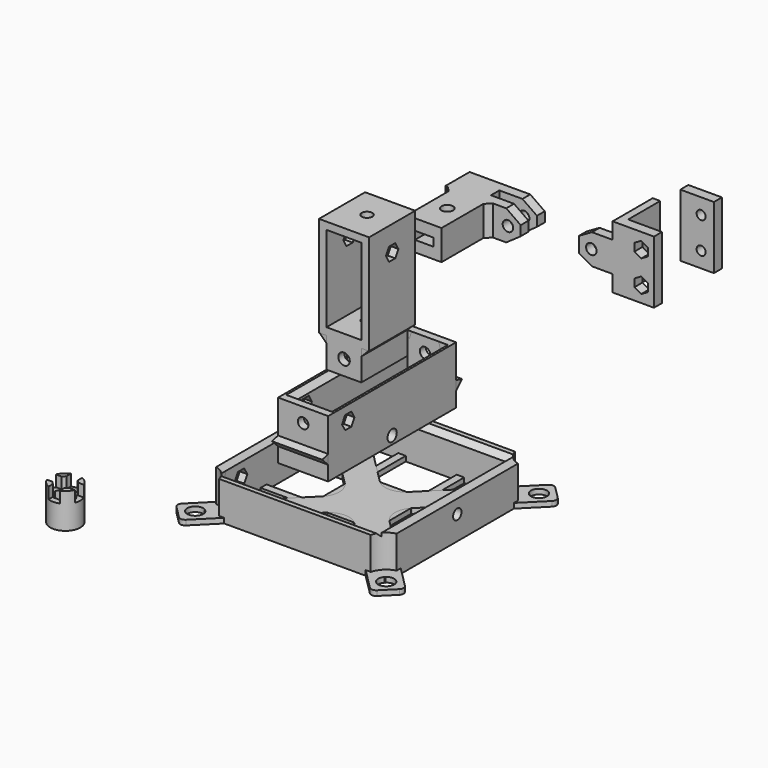
from build123d import *

# Parameters (mm, degrees)
CYLINDER004_R            = 2.1
CYLINDER004_DEPTH        = 3
CYLINDER005_R            = 2.1
CYLINDER005_DEPTH        = 3
CYLINDER006_R            = 2.1
CYLINDER006_DEPTH        = 3
CYLINDER003_R            = 2.1
CYLINDER003_DEPTH        = 3
CUBE003_W                = 70
CUBE003_H                = 3
CUBE003_DEPTH            = 2
CUBE004_W                = 3
CUBE004_H                = 70
CUBE004_DEPTH            = 2
CUBE005_W                = 3
CUBE005_H                = 70
CUBE005_DEPTH            = 2
CUBE006_W                = 9
CUBE006_H                = 9
CUBE006_DEPTH            = 2
CUBE007_W                = 9
CUBE007_H                = 9
CUBE007_DEPTH            = 2
CUBE008_W                = 9
CUBE008_H                = 9
CUBE008_DEPTH            = 2
CUBE009_W                = 9
CUBE009_H                = 9
CUBE009_DEPTH            = 2
CUBE002_W                = 70
CUBE002_H                = 3
CUBE002_DEPTH            = 2
CYLINDER_R               = 2.1
CYLINDER_DEPTH           = 73
PRISM_DEPTH              = 64
PRISM_ROLL_ANGLE         = 90
PRISM_PITCH_ANGLE        = -14.999988
PRISM_PLACEMENT_ANGLE    = 90
PRISM001_DEPTH           = 64
PRISM001_ROLL_ANGLE      = -90
PRISM001_PITCH_ANGLE     = -14.999988
PRISM001_PLACEMENT_ANGLE = -90
PRISM002_DEPTH           = 3
PRISM003_DEPTH           = 3
CYLINDER001_R            = 1.8
CYLINDER001_DEPTH        = 6
CYLINDER002_R            = 1.8
CYLINDER002_DEPTH        = 6
CUBE001_W                = 64
CUBE001_H                = 64
CUBE001_DEPTH            = 15
CUBE_W                   = 72
CUBE_H                   = 72
CUBE_DEPTH               = 15
SKETCH001_R              = 3.175
PAD_DEPTH                = 2
SKETCH_R                 = 8.125
POCKET_DEPTH             = 13
REVOLUTION_ANGLE         = -90
CUBE013_W                = 3.2
CUBE013_H                = 7.4
CUBE013_DEPTH            = 6
CUBE014_W                = 3.52
CUBE014_H                = 7.4
CUBE014_DEPTH            = 6
CYLINDER009_R            = 2.3
CYLINDER009_DEPTH        = 71
CUBE012_W                = 14
CUBE012_H                = 10
CUBE012_DEPTH            = 6
CYLINDER007_R            = 2.3
CYLINDER007_DEPTH        = 71
CYLINDER008_R            = 2.1
CYLINDER008_DEPTH        = 71
PRISM006_DEPTH           = 57.8
PRISM006_ROLL_ANGLE      = 90
PRISM006_PITCH_ANGLE     = -14.999996
PRISM007_DEPTH           = 57.8
PRISM007_ROLL_ANGLE      = -90
PRISM007_PITCH_ANGLE     = -14.999996
PRISM007_PLACEMENT_ANGLE = -180
PRISM008_DEPTH           = 21
CUBE011_W                = 14
CUBE011_H                = 57.8
CUBE011_DEPTH            = 23
PRISM004_DEPTH           = 20
PRISM004_ROLL_ANGLE      = 90
PRISM004_PITCH_ANGLE     = -14.999988
PRISM004_PLACEMENT_ANGLE = 90
PRISM005_DEPTH           = 20
PRISM005_ROLL_ANGLE      = -90
PRISM005_PITCH_ANGLE     = -14.999988
PRISM005_PLACEMENT_ANGLE = -90
CUBE010_W                = 20
CUBE010_H                = 63.8
CUBE010_DEPTH            = 23
CYLINDER010_R            = 2.1
CYLINDER010_DEPTH        = 43
CYLINDER011_R            = 4
CYLINDER011_DEPTH        = 12
CYLINDER012_R            = 2.3
CYLINDER012_DEPTH        = 71
CUBE018_W                = 7.4
CUBE018_H                = 3.2
CUBE018_DEPTH            = 12
CUBE019_W                = 7.4
CUBE019_H                = 3.52
CUBE019_DEPTH            = 12
PRISM011_DEPTH           = 34
PRISM011_PLACEMENT_ANGLE = 15
PRISM012_DEPTH           = 34
PRISM012_PLACEMENT_ANGLE = 75
PRISM013_DEPTH           = 21
CUBE017_W                = 14
CUBE017_H                = 23
CUBE017_DEPTH            = 34.2
CUBE016_W                = 13.8
CUBE016_H                = 23
CUBE016_DEPTH            = 12
PRISM009_DEPTH           = 23
PRISM009_ROLL_ANGLE      = 90
PRISM009_PITCH_ANGLE     = -14.999996
PRISM010_DEPTH           = 23
PRISM010_ROLL_ANGLE      = -90
PRISM010_PITCH_ANGLE     = -14.999996
PRISM010_PLACEMENT_ANGLE = -180
CUBE015_W                = 20
CUBE015_H                = 23
CUBE015_DEPTH            = 40
CUBE022_W                = 7.4
CUBE022_H                = 50
CUBE022_DEPTH            = 3.2
CUBE023_W                = 15
CUBE023_H                = 4.2
CUBE023_DEPTH            = 12
CYLINDER014_R            = 2.1
CYLINDER014_DEPTH        = 13
PRISM016_DEPTH           = 13
PRISM016_ROLL_ANGLE      = 90
PRISM016_PITCH_ANGLE     = 65.000022
PRISM017_DEPTH           = 13
PRISM017_ROLL_ANGLE      = -90
PRISM017_PITCH_ANGLE     = 4.999997
PRISM017_PLACEMENT_ANGLE = 180
CYLINDER013_R            = 2.3
CYLINDER013_DEPTH        = 41
PRISM014_DEPTH           = 12
PRISM014_PLACEMENT_ANGLE = 15
PRISM015_DEPTH           = 12
PRISM015_PLACEMENT_ANGLE = 75
CUBE021_W                = 30
CUBE021_H                = 12
CUBE021_DEPTH            = 12
CUBE020_W                = 13.8
CUBE020_H                = 23
CUBE020_DEPTH            = 12
PRISM018_DEPTH           = 13
PRISM019_DEPTH           = 13
PRISM020_DEPTH           = 6
PRISM020_ROLL_ANGLE      = 90
PRISM020_PITCH_ANGLE     = 30.000006
CYLINDER016_R            = 1.8
CYLINDER016_DEPTH        = 6
PRISM021_DEPTH           = 6
PRISM021_ROLL_ANGLE      = 90
PRISM021_PITCH_ANGLE     = 30.000006
CYLINDER017_R            = 1.8
CYLINDER017_DEPTH        = 6
CYLINDER015_R            = 2.1
CYLINDER015_DEPTH        = 13
CUBE025_W                = 3
CUBE025_H                = 20
CUBE025_DEPTH            = 25
CUBE026_W                = 15
CUBE026_H                = 4
CUBE026_DEPTH            = 25
CUBE027_W                = 13.4
CUBE027_H                = 4
CUBE027_DEPTH            = 25
CUBE024_W                = 15
CUBE024_H                = 3.8
CUBE024_DEPTH            = 12
CYLINDER019_R            = 4
CYLINDER019_DEPTH        = 4.5
CUBE028_W                = 20
CUBE028_H                = 4.5
CUBE028_DEPTH            = 4.5
CUBE029_W                = 4.5
CUBE029_H                = 20
CUBE029_DEPTH            = 4.5
PRISM022_DEPTH           = 10
CYLINDER018_R            = 6
CYLINDER018_DEPTH        = 14


with BuildPart() as cylinder004:
    # cylinder004 → cylinder004 (new body)
    with BuildSketch(Plane(origin=(-27.5, 27.5, -17.5), x_dir=(1, 0, 0), z_dir=(0, 0, 1))):
        Circle(CYLINDER004_R)
    extrude(amount=CYLINDER004_DEPTH)


with BuildPart() as cylinder005:
    # cylinder005 → cylinder005 (new body)
    with BuildSketch(Plane(origin=(27.5, -27.5, -17.5), x_dir=(1, 0, 0), z_dir=(0, 0, 1))):
        Circle(CYLINDER005_R)
    extrude(amount=CYLINDER005_DEPTH)


with BuildPart() as cylinder006:
    # cylinder006 → cylinder006 (new body)
    with BuildSketch(Plane(origin=(-27.5, -27.5, -17.5), x_dir=(1, 0, 0), z_dir=(0, 0, 1))):
        Circle(CYLINDER006_R)
    extrude(amount=CYLINDER006_DEPTH)


with BuildPart() as group002:
    # cylinder003 → cylinder003 (new body)
    with BuildSketch(Plane(origin=(27.5, 27.5, -17.5), x_dir=(1, 0, 0), z_dir=(0, 0, 1))):
        Circle(CYLINDER003_R)
    extrude(amount=CYLINDER003_DEPTH)

    # Group002: union cylinder004, cylinder005, cylinder006
    add(cylinder004.part)
    add(cylinder005.part)
    add(cylinder006.part)


with BuildPart() as cube003:
    # cube003 → cube003 (new body)
    with BuildSketch(Plane(origin=(-35, -13.1667, -17), x_dir=(1, 0, 0), z_dir=(0, 0, 1))):
        with Locations((35, 1.5)):
            Rectangle(CUBE003_W, CUBE003_H)
    extrude(amount=CUBE003_DEPTH)


with BuildPart() as cube004:
    # cube004 → cube004 (new body)
    with BuildSketch(Plane(origin=(10.1667, -35, -17), x_dir=(1, 0, 0), z_dir=(0, 0, 1))):
        with Locations((1.5, 35)):
            Rectangle(CUBE004_W, CUBE004_H)
    extrude(amount=CUBE004_DEPTH)


with BuildPart() as cube005:
    # cube005 → cube005 (new body)
    with BuildSketch(Plane(origin=(-13.1667, -35, -17), x_dir=(1, 0, 0), z_dir=(0, 0, 1))):
        with Locations((1.5, 35)):
            Rectangle(CUBE005_W, CUBE005_H)
    extrude(amount=CUBE005_DEPTH)


with BuildPart() as cube006:
    # cube006 → cube006 (new body)
    with BuildSketch(Plane(origin=(23, 23, -17), x_dir=(1, 0, 0), z_dir=(0, 0, 1))):
        with Locations((4.5, 4.5)):
            Rectangle(CUBE006_W, CUBE006_H)
    extrude(amount=CUBE006_DEPTH)


with BuildPart() as cube007:
    # cube007 → cube007 (new body)
    with BuildSketch(Plane(origin=(-32, 23, -17), x_dir=(1, 0, 0), z_dir=(0, 0, 1))):
        with Locations((4.5, 4.5)):
            Rectangle(CUBE007_W, CUBE007_H)
    extrude(amount=CUBE007_DEPTH)


with BuildPart() as cube008:
    # cube008 → cube008 (new body)
    with BuildSketch(Plane(origin=(23, -32, -17), x_dir=(1, 0, 0), z_dir=(0, 0, 1))):
        with Locations((4.5, 4.5)):
            Rectangle(CUBE008_W, CUBE008_H)
    extrude(amount=CUBE008_DEPTH)


with BuildPart() as cube009:
    # cube009 → cube009 (new body)
    with BuildSketch(Plane(origin=(-32, -32, -17), x_dir=(1, 0, 0), z_dir=(0, 0, 1))):
        with Locations((4.5, 4.5)):
            Rectangle(CUBE009_W, CUBE009_H)
    extrude(amount=CUBE009_DEPTH)


with BuildPart() as difference001:
    # cube002 → cube002 (new body)
    with BuildSketch(Plane(origin=(-35, 10.1667, -17), x_dir=(1, 0, 0), z_dir=(0, 0, 1))):
        with Locations((35, 1.5)):
            Rectangle(CUBE002_W, CUBE002_H)
    extrude(amount=CUBE002_DEPTH)

    # Group001: union cube003, cube004, cube005, cube006, cube007, cube008, cube009
    add(cube003.part)
    add(cube004.part)
    add(cube005.part)
    add(cube006.part)
    add(cube007.part)
    add(cube008.part)
    add(cube009.part)

    # difference001: cut Group002
    add(group002.part, mode=Mode.SUBTRACT)


with BuildPart() as cylinder:
    # cylinder → cylinder (new body)
    with BuildSketch(Plane(origin=(-36.5, 0, -7.5), x_dir=(0, 1, 0), z_dir=(1, 0, 0))):
        Circle(CYLINDER_R)
    extrude(amount=CYLINDER_DEPTH)


with BuildPart() as prism:
    # prism → prism (new body)
    with BuildSketch(Plane.XY):
        Polygon((3, 0), (-1.5, 2.598076), (-1.5, -2.598076), align=None)
    extrude(amount=PRISM_DEPTH)


with BuildPart() as prism_1:
    # prism roll: moved
    add(prism.part.rotate(Axis((0, 0, 0), (1, 0, 0)), PRISM_ROLL_ANGLE))


with BuildPart() as prism_2:
    # prism pitch: moved
    add(prism_1.part.rotate(Axis((0, 0, 0), (0, 1, 0)), PRISM_PITCH_ANGLE))


with BuildPart() as prism_3:
    # prism placement: moved
    add(prism_2.part.moved(Location((-32.000004, 32, -2))).rotate(Axis((-32.000004, 32, -2), (0, 0, 1)), PRISM_PLACEMENT_ANGLE))


with BuildPart() as prism001:
    # prism001 → prism001 (new body)
    with BuildSketch(Plane.XY):
        Polygon((3, 0), (-1.5, 2.598076), (-1.5, -2.598076), align=None)
    extrude(amount=PRISM001_DEPTH)


with BuildPart() as prism001_1:
    # prism001 roll: moved
    add(prism001.part.rotate(Axis((0, 0, 0), (1, 0, 0)), PRISM001_ROLL_ANGLE))


with BuildPart() as prism001_2:
    # prism001 pitch: moved
    add(prism001_1.part.rotate(Axis((0, 0, 0), (0, 1, 0)), PRISM001_PITCH_ANGLE))


with BuildPart() as prism001_3:
    # prism001 placement: moved
    add(prism001_2.part.moved(Location((-32.000004, -32, -2))).rotate(Axis((-32.000004, -32, -2), (0, 0, 1)), PRISM001_PLACEMENT_ANGLE))


with BuildPart() as prism002:
    # prism002 → prism002 (new body)
    with BuildSketch(Plane(origin=(-35, 13.05, -7.5), x_dir=(0, 1, 0), z_dir=(1, 0, 0))):
        Polygon((3.1, 0), (1.55, 2.684679), (-1.55, 2.684679), (-3.1, 0), (-1.55, -2.684679), (1.55, -2.684679), align=None)
    extrude(amount=PRISM002_DEPTH)


with BuildPart() as prism003:
    # prism003 → prism003 (new body)
    with BuildSketch(Plane(origin=(-35, -22.85, -7.5), x_dir=(0, 1, 0), z_dir=(1, 0, 0))):
        Polygon((3.1, 0), (1.55, 2.684679), (-1.55, 2.684679), (-3.1, 0), (-1.55, -2.684679), (1.55, -2.684679), align=None)
    extrude(amount=PRISM003_DEPTH)


with BuildPart() as cylinder001:
    # cylinder001 → cylinder001 (new body)
    with BuildSketch(Plane(origin=(-36.5, 13.05, -7.5), x_dir=(0, 1, 0), z_dir=(1, 0, 0))):
        Circle(CYLINDER001_R)
    extrude(amount=CYLINDER001_DEPTH)


with BuildPart() as cylinder002:
    # cylinder002 → cylinder002 (new body)
    with BuildSketch(Plane(origin=(-36.5, -22.85, -7.5), x_dir=(0, 1, 0), z_dir=(1, 0, 0))):
        Circle(CYLINDER002_R)
    extrude(amount=CYLINDER002_DEPTH)


with BuildPart() as group:
    # cube001 → cube001 (new body)
    with BuildSketch(Plane(origin=(-32, -32, -17), x_dir=(1, 0, 0), z_dir=(0, 0, 1))):
        with Locations((32, 32)):
            Rectangle(CUBE001_W, CUBE001_H)
    extrude(amount=CUBE001_DEPTH)

    # Group: union cylinder, prism, prism001, prism002, prism003, cylinder001, cylinder002
    add(cylinder.part)
    add(prism_3.part)
    add(prism001_3.part)
    add(prism002.part)
    add(prism003.part)
    add(cylinder001.part)
    add(cylinder002.part)


with BuildPart() as base_square:
    # cube → cube (new body)
    with BuildSketch(Plane(origin=(-36, -36, -17), x_dir=(1, 0, 0), z_dir=(0, 0, 1))):
        with Locations((36, 36)):
            Rectangle(CUBE_W, CUBE_H)
    extrude(amount=CUBE_DEPTH)

    # difference: cut Group
    add(group.part, mode=Mode.SUBTRACT)

    # Sketch001 → Pad (new body)
    with BuildSketch(Plane(origin=(0, 0, -17), x_dir=(1, 0, 0), z_dir=(0, 0, -1))):
        with BuildLine():
            Line((-44.463961, 36.685786), (-13.435029, 5.656854))
            ThreePointArc((-13.435029, -5.656854), (-11.091883, 0), (-13.435029, 5.656854))
            Line((-13.435029, -5.656854), (-44.463961, -36.685786))
            ThreePointArc((-44.463961, -36.685786), (-45.049747, -38.1), (-44.463961, -39.514214))
            Line((-44.463961, -39.514214), (-39.514214, -44.463961))
            ThreePointArc((-39.514214, -44.463961), (-38.1, -45.049747), (-36.685786, -44.463961))
            Line((-36.685786, -44.463961), (-5.656854, -13.435029))
            ThreePointArc((5.656854, -13.435029), (0, -11.091883), (-5.656854, -13.435029))
            Line((5.656854, -13.435029), (36.685786, -44.463961))
            ThreePointArc((36.685786, -44.463961), (38.1, -45.049747), (39.514214, -44.463961))
            Line((39.514214, -44.463961), (44.463961, -39.514214))
            ThreePointArc((44.463961, -39.514214), (45.049747, -38.1), (44.463961, -36.685786))
            Line((44.463961, -36.685786), (13.435029, -5.656854))
            ThreePointArc((13.435029, 5.656854), (11.091883, 0), (13.435029, -5.656854))
            Line((13.435029, 5.656854), (44.463961, 36.685786))
            ThreePointArc((44.463961, 36.685786), (45.049747, 38.1), (44.463961, 39.514214))
            Line((44.463961, 39.514214), (39.514214, 44.463961))
            ThreePointArc((39.514214, 44.463961), (38.1, 45.049747), (36.685786, 44.463961))
            Line((36.685786, 44.463961), (5.656854, 13.435029))
            ThreePointArc((-5.656854, 13.435029), (0, 11.091883), (5.656854, 13.435029))
            Line((-5.656854, 13.435029), (-36.685786, 44.463961))
            ThreePointArc((-36.685786, 44.463961), (-38.1, 45.049747), (-39.514214, 44.463961))
            Line((-39.514214, 44.463961), (-44.463961, 39.514214))
            ThreePointArc((-44.463961, 39.514214), (-45.049747, 38.1), (-44.463961, 36.685786))
        make_face()
        with Locations((-38.1, 38.1)):
            Circle(SKETCH001_R, mode=Mode.SUBTRACT)
        with Locations((38.1, 38.1)):
            Circle(SKETCH001_R, mode=Mode.SUBTRACT)
        with Locations((-38.1, -38.1)):
            Circle(SKETCH001_R, mode=Mode.SUBTRACT)
        with Locations((38.1, -38.1)):
            Circle(SKETCH001_R, mode=Mode.SUBTRACT)
    extrude(amount=-PAD_DEPTH)

    # Sketch (on Face21 of Pad) → Pocket (cut)
    with BuildSketch(Plane.XY.offset(-2)):
        with Locations((-38.1, -38.1)):
            Circle(SKETCH_R)
        with Locations((38.1, -38.1)):
            Circle(SKETCH_R)
        with Locations((38.1, 38.1)):
            Circle(SKETCH_R)
        with Locations((-38.1, 38.1)):
            Circle(SKETCH_R)
    extrude(amount=-POCKET_DEPTH, mode=Mode.SUBTRACT)

    # Sketch002 (on Face26 of Pocket) → Revolution (revolve)
    with BuildSketch(Plane.XZ.offset(-32)):
        Polygon((-32, -15), (-32, -11), (-30, -11), (-27, -15), align=None)
    revolve(axis=Axis((-32, 32, -9.56066), (0, 0, 1)), revolution_arc=REVOLUTION_ANGLE)


with BuildPart() as cube013:
    # cube013 → cube013 (new body)
    with BuildSketch(Plane(origin=(-7, -3.7, 8.5), x_dir=(1, 0, 0), z_dir=(0, 0, 1))):
        with Locations((1.6, 3.7)):
            Rectangle(CUBE013_W, CUBE013_H)
    extrude(amount=CUBE013_DEPTH)


with BuildPart() as cube014:
    # cube014 → cube014 (new body)
    with BuildSketch(Plane(origin=(2.85194, -3.7, 8.5), x_dir=(1, 0, 0), z_dir=(0, 0, 1))):
        with Locations((1.76, 3.7)):
            Rectangle(CUBE014_W, CUBE014_H)
    extrude(amount=CUBE014_DEPTH)


with BuildPart() as group005:
    # cylinder009 → cylinder009 (new body)
    with BuildSketch(Plane(origin=(-35.5, 0, 11.75), x_dir=(0, 1, 0), z_dir=(1, 0, 0))):
        Circle(CYLINDER009_R)
    extrude(amount=CYLINDER009_DEPTH)

    # Group005: union cube013, cube014
    add(cube013.part)
    add(cube014.part)


with BuildPart() as body003:
    # cube012 → cube012 (new body)
    with BuildSketch(Plane(origin=(-7, -5, 8.5), x_dir=(1, 0, 0), z_dir=(0, 0, 1))):
        with Locations((7, 5)):
            Rectangle(CUBE012_W, CUBE012_H)
    extrude(amount=CUBE012_DEPTH)

    # difference003: cut Group005
    add(group005.part, mode=Mode.SUBTRACT)


with BuildPart() as cylinder007:
    # cylinder007 → cylinder007 (new body)
    with BuildSketch(Plane(origin=(-35.5, 0, 11.75), x_dir=(0, 1, 0), z_dir=(1, 0, 0))):
        Circle(CYLINDER007_R)
    extrude(amount=CYLINDER007_DEPTH)


with BuildPart() as cylinder008:
    # cylinder008 → cylinder008 (new body)
    with BuildSketch(Plane(origin=(0, 35.5, 25.75), x_dir=(1, 0, 0), z_dir=(0, -1, 0))):
        Circle(CYLINDER008_R)
    extrude(amount=CYLINDER008_DEPTH)


with BuildPart() as prism006:
    # prism006 → prism006 (new body)
    with BuildSketch(Plane.XY):
        Polygon((3, 0), (-1.5, 2.598076), (-1.5, -2.598076), align=None)
    extrude(amount=PRISM006_DEPTH)


with BuildPart() as prism006_1:
    # prism006 roll: moved
    add(prism006.part.rotate(Axis((0, 0, 0), (1, 0, 0)), PRISM006_ROLL_ANGLE))


with BuildPart() as prism006_2:
    # prism006 pitch: moved
    add(prism006_1.part.rotate(Axis((0, 0, 0), (0, 1, 0)), PRISM006_PITCH_ANGLE))


with BuildPart() as prism006_3:
    # prism006 placement: moved
    add(prism006_2.part.moved(Location((7, 28.900002, 31.5))))


with BuildPart() as prism007:
    # prism007 → prism007 (new body)
    with BuildSketch(Plane.XY):
        Polygon((3, 0), (-1.5, 2.598076), (-1.5, -2.598076), align=None)
    extrude(amount=PRISM007_DEPTH)


with BuildPart() as prism007_1:
    # prism007 roll: moved
    add(prism007.part.rotate(Axis((0, 0, 0), (1, 0, 0)), PRISM007_ROLL_ANGLE))


with BuildPart() as prism007_2:
    # prism007 pitch: moved
    add(prism007_1.part.rotate(Axis((0, 0, 0), (0, 1, 0)), PRISM007_PITCH_ANGLE))


with BuildPart() as prism007_3:
    # prism007 placement: moved
    add(prism007_2.part.moved(Location((-7, 28.900002, 31.5))).rotate(Axis((-7, 28.900002, 31.5), (0, 0, 1)), PRISM007_PLACEMENT_ANGLE))


with BuildPart() as prism008:
    # prism008 → prism008 (new body)
    with BuildSketch(Plane(origin=(-10.5, -21.9, 25.75), x_dir=(0, 1, 0), z_dir=(1, 0, 0))):
        Polygon((3.1, 0), (1.55, 2.684679), (-1.55, 2.684679), (-3.1, 0), (-1.55, -2.684679), (1.55, -2.684679), align=None)
    extrude(amount=PRISM008_DEPTH)


with BuildPart() as group004:
    # cube011 → cube011 (new body)
    with BuildSketch(Plane(origin=(-7, -28.9, 8.5), x_dir=(1, 0, 0), z_dir=(0, 0, 1))):
        with Locations((7, 28.9)):
            Rectangle(CUBE011_W, CUBE011_H)
    extrude(amount=CUBE011_DEPTH)

    # Group004: union cylinder007, cylinder008, prism006, prism007, prism008
    add(cylinder007.part)
    add(cylinder008.part)
    add(prism006_3.part)
    add(prism007_3.part)
    add(prism008.part)


with BuildPart() as prism004:
    # prism004 → prism004 (new body)
    with BuildSketch(Plane.XY):
        Polygon((3, 0), (-1.5, 2.598076), (-1.5, -2.598076), align=None)
    extrude(amount=PRISM004_DEPTH)


with BuildPart() as prism004_1:
    # prism004 roll: moved
    add(prism004.part.rotate(Axis((0, 0, 0), (1, 0, 0)), PRISM004_ROLL_ANGLE))


with BuildPart() as prism004_2:
    # prism004 pitch: moved
    add(prism004_1.part.rotate(Axis((0, 0, 0), (0, 1, 0)), PRISM004_PITCH_ANGLE))


with BuildPart() as prism004_3:
    # prism004 placement: moved
    add(prism004_2.part.moved(Location((-10.000001, 32, 16.6))).rotate(Axis((-10.000001, 32, 16.6), (0, 0, 1)), PRISM004_PLACEMENT_ANGLE))


with BuildPart() as prism005:
    # prism005 → prism005 (new body)
    with BuildSketch(Plane.XY):
        Polygon((3, 0), (-1.5, 2.598076), (-1.5, -2.598076), align=None)
    extrude(amount=PRISM005_DEPTH)


with BuildPart() as prism005_1:
    # prism005 roll: moved
    add(prism005.part.rotate(Axis((0, 0, 0), (1, 0, 0)), PRISM005_ROLL_ANGLE))


with BuildPart() as prism005_2:
    # prism005 pitch: moved
    add(prism005_1.part.rotate(Axis((0, 0, 0), (0, 1, 0)), PRISM005_PITCH_ANGLE))


with BuildPart() as prism005_3:
    # prism005 placement: moved
    add(prism005_2.part.moved(Location((-10.000001, -32, 16.6))).rotate(Axis((-10.000001, -32, 16.6), (0, 0, 1)), PRISM005_PLACEMENT_ANGLE))


with BuildPart() as bottom_slider:
    # cube010 → cube010 (new body)
    with BuildSketch(Plane(origin=(-10, -31.9, 8.5), x_dir=(1, 0, 0), z_dir=(0, 0, 1))):
        with Locations((10, 31.9)):
            Rectangle(CUBE010_W, CUBE010_H)
    extrude(amount=CUBE010_DEPTH)

    # Group003: union prism004, prism005
    add(prism004_3.part)
    add(prism005_3.part)

    # difference002: cut Group004
    add(group004.part, mode=Mode.SUBTRACT)

    # Fusion: union Body003
    add(body003.part)


with BuildPart() as cylinder010:
    # cylinder010 → cylinder010 (new body)
    with BuildSketch(Plane.XY.offset(44.5)):
        Circle(CYLINDER010_R)
    extrude(amount=CYLINDER010_DEPTH)


with BuildPart() as cylinder011:
    # cylinder011 → cylinder011 (new body)
    with BuildSketch(Plane.XY.offset(34)):
        Circle(CYLINDER011_R)
    extrude(amount=CYLINDER011_DEPTH)


with BuildPart() as cylinder012:
    # cylinder012 → cylinder012 (new body)
    with BuildSketch(Plane(origin=(0, 35.5, 40), x_dir=(1, 0, 0), z_dir=(0, -1, 0))):
        Circle(CYLINDER012_R)
    extrude(amount=CYLINDER012_DEPTH)


with BuildPart() as cube018:
    # cube018 → cube018 (new body)
    with BuildSketch(Plane(origin=(-3.7, -8.5, 34), x_dir=(1, 0, 0), z_dir=(0, 0, 1))):
        with Locations((3.7, 1.6)):
            Rectangle(CUBE018_W, CUBE018_H)
    extrude(amount=CUBE018_DEPTH)


with BuildPart() as cube019:
    # cube019 → cube019 (new body)
    with BuildSketch(Plane(origin=(-3.7, 5.14, 34), x_dir=(1, 0, 0), z_dir=(0, 0, 1))):
        with Locations((3.7, 1.76)):
            Rectangle(CUBE019_W, CUBE019_H)
    extrude(amount=CUBE019_DEPTH)


with BuildPart() as prism011:
    # prism011 → prism011 (new body)
    with BuildSketch(Plane.XY):
        Polygon((3, 0), (-1.5, 2.598076), (-1.5, -2.598076), align=None)
    extrude(amount=PRISM011_DEPTH)


with BuildPart() as prism011_1:
    # prism011 placement: moved
    add(prism011.part.moved(Location((7, 11.5, 49))).rotate(Axis((7, 11.5, 49), (0, 0, 1)), PRISM011_PLACEMENT_ANGLE))


with BuildPart() as prism012:
    # prism012 → prism012 (new body)
    with BuildSketch(Plane.XY):
        Polygon((3, 0), (-1.5, 2.598076), (-1.5, -2.598076), align=None)
    extrude(amount=PRISM012_DEPTH)


with BuildPart() as prism012_1:
    # prism012 placement: moved
    add(prism012.part.moved(Location((-7, 11.5, 49))).rotate(Axis((-7, 11.5, 49), (0, 0, -1)), PRISM012_PLACEMENT_ANGLE))


with BuildPart() as prism013:
    # prism013 → prism013 (new body)
    with BuildSketch(Plane(origin=(-10.5, 0, 76), x_dir=(0, 1, 0), z_dir=(1, 0, 0))):
        Polygon((3.1, 0), (1.55, 2.684679), (-1.55, 2.684679), (-3.1, 0), (-1.55, -2.684679), (1.55, -2.684679), align=None)
    extrude(amount=PRISM013_DEPTH)


with BuildPart() as group007:
    # cube017 → cube017 (new body)
    with BuildSketch(Plane(origin=(-7, -11.5, 48.9), x_dir=(1, 0, 0), z_dir=(0, 0, 1))):
        with Locations((7, 11.5)):
            Rectangle(CUBE017_W, CUBE017_H)
    extrude(amount=CUBE017_DEPTH)

    # Group007: union cylinder010, cylinder011, cylinder012, cube018, cube019, prism011, prism012, prism013
    add(cylinder010.part)
    add(cylinder011.part)
    add(cylinder012.part)
    add(cube018.part)
    add(cube019.part)
    add(prism011_1.part)
    add(prism012_1.part)
    add(prism013.part)


with BuildPart() as cube016:
    # cube016 → cube016 (new body)
    with BuildSketch(Plane(origin=(-6.9, -11.5, 34), x_dir=(1, 0, 0), z_dir=(0, 0, 1))):
        with Locations((6.9, 11.5)):
            Rectangle(CUBE016_W, CUBE016_H)
    extrude(amount=CUBE016_DEPTH)


with BuildPart() as prism009:
    # prism009 → prism009 (new body)
    with BuildSketch(Plane.XY):
        Polygon((3, 0), (-1.5, 2.598076), (-1.5, -2.598076), align=None)
    extrude(amount=PRISM009_DEPTH)


with BuildPart() as prism009_1:
    # prism009 roll: moved
    add(prism009.part.rotate(Axis((0, 0, 0), (1, 0, 0)), PRISM009_ROLL_ANGLE))


with BuildPart() as prism009_2:
    # prism009 pitch: moved
    add(prism009_1.part.rotate(Axis((0, 0, 0), (0, 1, 0)), PRISM009_PITCH_ANGLE))


with BuildPart() as prism009_3:
    # prism009 placement: moved
    add(prism009_2.part.moved(Location((7, 11.500001, 45.35))))


with BuildPart() as prism010:
    # prism010 → prism010 (new body)
    with BuildSketch(Plane.XY):
        Polygon((3, 0), (-1.5, 2.598076), (-1.5, -2.598076), align=None)
    extrude(amount=PRISM010_DEPTH)


with BuildPart() as prism010_1:
    # prism010 roll: moved
    add(prism010.part.rotate(Axis((0, 0, 0), (1, 0, 0)), PRISM010_ROLL_ANGLE))


with BuildPart() as prism010_2:
    # prism010 pitch: moved
    add(prism010_1.part.rotate(Axis((0, 0, 0), (0, 1, 0)), PRISM010_PITCH_ANGLE))


with BuildPart() as prism010_3:
    # prism010 placement: moved
    add(prism010_2.part.moved(Location((-7, 11.500001, 45.35))).rotate(Axis((-7, 11.500001, 45.35), (0, 0, 1)), PRISM010_PLACEMENT_ANGLE))


with BuildPart() as side_slider:
    # cube015 → cube015 (new body)
    with BuildSketch(Plane(origin=(-10, -11.5, 46), x_dir=(1, 0, 0), z_dir=(0, 0, 1))):
        with Locations((10, 11.5)):
            Rectangle(CUBE015_W, CUBE015_H)
    extrude(amount=CUBE015_DEPTH)

    # Group006: union cube016, prism009, prism010
    add(cube016.part)
    add(prism009_3.part)
    add(prism010_3.part)

    # difference004: cut Group007
    add(group007.part, mode=Mode.SUBTRACT)


with BuildPart() as cube022:
    # cube022 → cube022 (new body)
    with BuildSketch(Plane(origin=(-3.7, 15, 64.4), x_dir=(1, 0, 0), z_dir=(0, 0, 1))):
        with Locations((3.7, 25)):
            Rectangle(CUBE022_W, CUBE022_H)
    extrude(amount=CUBE022_DEPTH)


with BuildPart() as cube023:
    # cube023 → cube023 (new body)
    with BuildSketch(Plane(origin=(5.1, 55.4, 60), x_dir=(1, 0, 0), z_dir=(0, 0, 1))):
        with Locations((7.5, 2.1)):
            Rectangle(CUBE023_W, CUBE023_H)
    extrude(amount=CUBE023_DEPTH)


with BuildPart() as cylinder014:
    # cylinder014 → cylinder014 (new body)
    with BuildSketch(Plane(origin=(15, 64, 66), x_dir=(1, 0, 0), z_dir=(0, -1, 0))):
        Circle(CYLINDER014_R)
    extrude(amount=CYLINDER014_DEPTH)


with BuildPart() as prism016:
    # prism016 → prism016 (new body)
    with BuildSketch(Plane.XY):
        Polygon((5.25, 0), (-2.625, 4.546633), (-2.625, -4.546633), align=None)
    extrude(amount=PRISM016_DEPTH)


with BuildPart() as prism016_1:
    # prism016 roll: moved
    add(prism016.part.rotate(Axis((0, 0, 0), (1, 0, 0)), PRISM016_ROLL_ANGLE))


with BuildPart() as prism016_2:
    # prism016 pitch: moved
    add(prism016_1.part.rotate(Axis((0, 0, 0), (0, 1, 0)), PRISM016_PITCH_ANGLE))


with BuildPart() as prism016_3:
    # prism016 placement: moved
    add(prism016_2.part.moved(Location((18.9, 64, 72))))


with BuildPart() as prism017:
    # prism017 → prism017 (new body)
    with BuildSketch(Plane.XY):
        Polygon((5.25, 0), (-2.625, 4.546633), (-2.625, -4.546633), align=None)
    extrude(amount=PRISM017_DEPTH)


with BuildPart() as prism017_1:
    # prism017 roll: moved
    add(prism017.part.rotate(Axis((0, 0, 0), (1, 0, 0)), PRISM017_ROLL_ANGLE))


with BuildPart() as prism017_2:
    # prism017 pitch: moved
    add(prism017_1.part.rotate(Axis((0, 0, 0), (0, 1, 0)), PRISM017_PITCH_ANGLE))


with BuildPart() as prism017_3:
    # prism017 placement: moved
    add(prism017_2.part.moved(Location((18.9, 64.000001, 60))).rotate(Axis((18.9, 64.000001, 60), (0, 0, 1)), PRISM017_PLACEMENT_ANGLE))


with BuildPart() as group009:
    # cylinder013 → cylinder013 (new body)
    with BuildSketch(Plane(origin=(0, 40, 51.5), x_dir=(1, 0, 0), z_dir=(0, 0, 1))):
        Circle(CYLINDER013_R)
    extrude(amount=CYLINDER013_DEPTH)

    # Group009: union cube022, cube023, cylinder014, prism016, prism017
    add(cube022.part)
    add(cube023.part)
    add(cylinder014.part)
    add(prism016_3.part)
    add(prism017_3.part)


with BuildPart() as prism014:
    # prism014 → prism014 (new body)
    with BuildSketch(Plane.XY):
        Polygon((3, 0), (-1.5, 2.598076), (-1.5, -2.598076), align=None)
    extrude(amount=PRISM014_DEPTH)


with BuildPart() as prism014_1:
    # prism014 placement: moved
    add(prism014.part.moved(Location((7, 51.6, 60))).rotate(Axis((7, 51.6, 60), (0, 0, 1)), PRISM014_PLACEMENT_ANGLE))


with BuildPart() as prism015:
    # prism015 → prism015 (new body)
    with BuildSketch(Plane.XY):
        Polygon((3, 0), (-1.5, 2.598076), (-1.5, -2.598076), align=None)
    extrude(amount=PRISM015_DEPTH)


with BuildPart() as prism015_1:
    # prism015 placement: moved
    add(prism015.part.moved(Location((-7, 51.6, 60))).rotate(Axis((-7, 51.6, 60), (0, 0, -1)), PRISM015_PLACEMENT_ANGLE))


with BuildPart() as cube021:
    # cube021 → cube021 (new body)
    with BuildSketch(Plane(origin=(-9.9, 51.5, 60), x_dir=(1, 0, 0), z_dir=(0, 0, 1))):
        with Locations((15, 6)):
            Rectangle(CUBE021_W, CUBE021_H)
    extrude(amount=CUBE021_DEPTH)


with BuildPart() as obj1:
    # cube020 → cube020 (new body)
    with BuildSketch(Plane(origin=(-6.9, 28.5, 60), x_dir=(1, 0, 0), z_dir=(0, 0, 1))):
        with Locations((6.9, 11.5)):
            Rectangle(CUBE020_W, CUBE020_H)
    extrude(amount=CUBE020_DEPTH)

    # Group008: union prism014, prism015, cube021
    add(prism014_1.part)
    add(prism015_1.part)
    add(cube021.part)

    # difference005: cut Group009
    add(group009.part, mode=Mode.SUBTRACT)


with BuildPart() as prism018:
    # prism018 → prism018 (new body)
    with BuildSketch(Plane(origin=(40, 64, 72), x_dir=(1, 0, 0), z_dir=(0, -1, 0))):
        Polygon((5.25, 0), (-2.625, 4.546633), (-2.625, -4.546633), align=None)
    extrude(amount=PRISM018_DEPTH)


with BuildPart() as prism019:
    # prism019 → prism019 (new body)
    with BuildSketch(Plane(origin=(40, 64, 60), x_dir=(1, 0, 0), z_dir=(0, -1, 0))):
        Polygon((5.25, 0), (-2.625, 4.546633), (-2.625, -4.546633), align=None)
    extrude(amount=PRISM019_DEPTH)


with BuildPart() as prism020:
    # prism020 → prism020 (new body)
    with BuildSketch(Plane.XY):
        Polygon((3.1, 0), (1.55, 2.684679), (-1.55, 2.684679), (-3.1, 0), (-1.55, -2.684679), (1.55, -2.684679), align=None)
    extrude(amount=PRISM020_DEPTH)


with BuildPart() as prism020_1:
    # prism020 roll: moved
    add(prism020.part.rotate(Axis((0, 0, 0), (1, 0, 0)), PRISM020_ROLL_ANGLE))


with BuildPart() as prism020_2:
    # prism020 pitch: moved
    add(prism020_1.part.rotate(Axis((0, 0, 0), (0, 1, 0)), PRISM020_PITCH_ANGLE))


with BuildPart() as prism020_3:
    # prism020 placement: moved
    add(prism020_2.part.moved(Location((64.9, 60.499999, 72.25))))


with BuildPart() as cylinder016:
    # cylinder016 → cylinder016 (new body)
    with BuildSketch(Plane(origin=(64.9, 90.5, 72.25), x_dir=(1, 0, 0), z_dir=(0, -1, 0))):
        Circle(CYLINDER016_R)
    extrude(amount=CYLINDER016_DEPTH)


with BuildPart() as prism021:
    # prism021 → prism021 (new body)
    with BuildSketch(Plane.XY):
        Polygon((3.1, 0), (1.55, 2.684679), (-1.55, 2.684679), (-3.1, 0), (-1.55, -2.684679), (1.55, -2.684679), align=None)
    extrude(amount=PRISM021_DEPTH)


with BuildPart() as prism021_1:
    # prism021 roll: moved
    add(prism021.part.rotate(Axis((0, 0, 0), (1, 0, 0)), PRISM021_ROLL_ANGLE))


with BuildPart() as prism021_2:
    # prism021 pitch: moved
    add(prism021_1.part.rotate(Axis((0, 0, 0), (0, 1, 0)), PRISM021_PITCH_ANGLE))


with BuildPart() as prism021_3:
    # prism021 placement: moved
    add(prism021_2.part.moved(Location((64.9, 60.499999, 59.75))))


with BuildPart() as cylinder017:
    # cylinder017 → cylinder017 (new body)
    with BuildSketch(Plane(origin=(64.9, 90.5, 59.75), x_dir=(1, 0, 0), z_dir=(0, -1, 0))):
        Circle(CYLINDER017_R)
    extrude(amount=CYLINDER017_DEPTH)


with BuildPart() as group011:
    # cylinder015 → cylinder015 (new body)
    with BuildSketch(Plane(origin=(45, 64, 66), x_dir=(1, 0, 0), z_dir=(0, -1, 0))):
        Circle(CYLINDER015_R)
    extrude(amount=CYLINDER015_DEPTH)

    # Group011: union prism018, prism019, prism020, cylinder016, prism021, cylinder017
    add(prism018.part)
    add(prism019.part)
    add(prism020_3.part)
    add(cylinder016.part)
    add(prism021_3.part)
    add(cylinder017.part)


with BuildPart() as cube025:
    # cube025 → cube025 (new body)
    with BuildSketch(Plane(origin=(53.5, 55.6, 53.5), x_dir=(1, 0, 0), z_dir=(0, 0, 1))):
        with Locations((1.5, 10)):
            Rectangle(CUBE025_W, CUBE025_H)
    extrude(amount=CUBE025_DEPTH)


with BuildPart() as cube026:
    # cube026 → cube026 (new body)
    with BuildSketch(Plane(origin=(55, 55.6, 53.5), x_dir=(1, 0, 0), z_dir=(0, 0, 1))):
        with Locations((7.5, 2)):
            Rectangle(CUBE026_W, CUBE026_H)
    extrude(amount=CUBE026_DEPTH)


with BuildPart() as cube027:
    # cube027 → cube027 (new body)
    with BuildSketch(Plane(origin=(56.6, 85.5, 53.5), x_dir=(1, 0, 0), z_dir=(0, 0, 1))):
        with Locations((6.7, 2)):
            Rectangle(CUBE027_W, CUBE027_H)
    extrude(amount=CUBE027_DEPTH)


with BuildPart() as manipulator:
    # cube024 → cube024 (new body)
    with BuildSketch(Plane(origin=(40, 55.6, 60), x_dir=(1, 0, 0), z_dir=(0, 0, 1))):
        with Locations((7.5, 1.9)):
            Rectangle(CUBE024_W, CUBE024_H)
    extrude(amount=CUBE024_DEPTH)

    # Group010: union cube025, cube026, cube027
    add(cube025.part)
    add(cube026.part)
    add(cube027.part)

    # difference006: cut Group011
    add(group011.part, mode=Mode.SUBTRACT)


with BuildPart() as cylinder019:
    # cylinder019 → cylinder019 (new body)
    with BuildSketch(Plane(origin=(-66.9, -66.9, -7), x_dir=(1, 0, 0), z_dir=(0, 0, 1))):
        Circle(CYLINDER019_R)
    extrude(amount=CYLINDER019_DEPTH)


with BuildPart() as cube028:
    # cube028 → cube028 (new body)
    with BuildSketch(Plane(origin=(-76.9, -69.15, -7), x_dir=(1, 0, 0), z_dir=(0, 0, 1))):
        with Locations((10, 2.25)):
            Rectangle(CUBE028_W, CUBE028_H)
    extrude(amount=CUBE028_DEPTH)


with BuildPart() as cube029:
    # cube029 → cube029 (new body)
    with BuildSketch(Plane(origin=(-69.15, -76.9, -7), x_dir=(1, 0, 0), z_dir=(0, 0, 1))):
        with Locations((2.25, 10)):
            Rectangle(CUBE029_W, CUBE029_H)
    extrude(amount=CUBE029_DEPTH)


with BuildPart() as group012:
    # prism022 → prism022 (new body)
    with BuildSketch(Plane(origin=(-66.9, -66.9, -16.5), x_dir=(1, 0, 0), z_dir=(0, 0, 1))):
        Polygon((4.2, 0), (2.1, 3.637307), (-2.1, 3.637307), (-4.2, 0), (-2.1, -3.637307), (2.1, -3.637307), align=None)
    extrude(amount=PRISM022_DEPTH)

    # Group012: union cylinder019, cube028, cube029
    add(cylinder019.part)
    add(cube028.part)
    add(cube029.part)


with BuildPart() as nut:
    # cylinder018 → cylinder018 (new body)
    with BuildSketch(Plane(origin=(-66.9, -66.9, -16.5), x_dir=(1, 0, 0), z_dir=(0, 0, 1))):
        Circle(CYLINDER018_R)
    extrude(amount=CYLINDER018_DEPTH)

    # difference007: cut Group012
    add(group012.part, mode=Mode.SUBTRACT)


solid = Compound([difference001.part, base_square.part, bottom_slider.part, side_slider.part, obj1.part, manipulator.part, nut.part])
